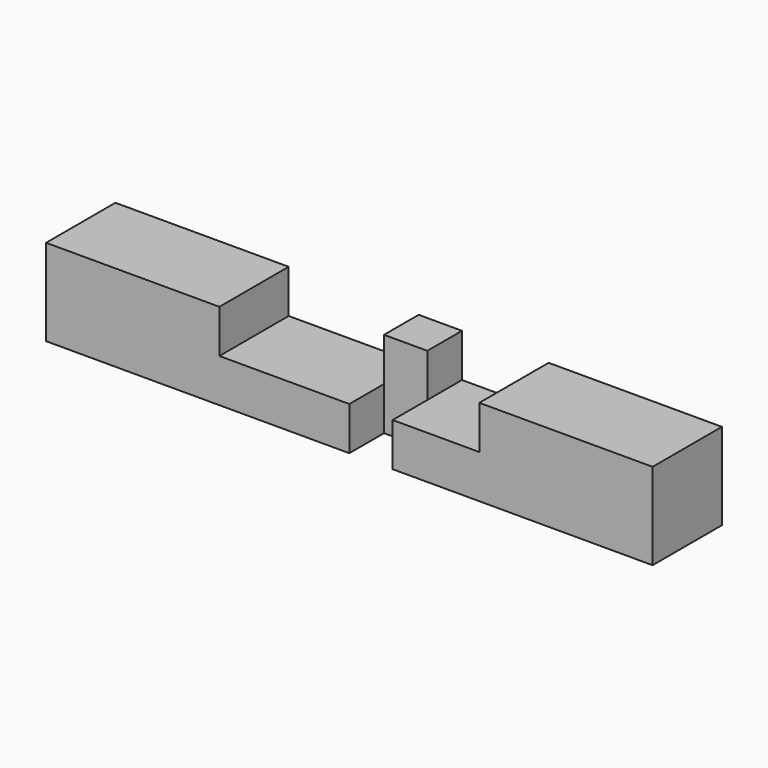
from build123d import *

# Parameters (mm, degrees)
F0_W     = 17.5
F0_H     = 5
F1_DEPTH = 2.5
F2_W     = 7.5
F2_H     = 5
F3_DEPTH = 2.5
F4_W     = 2.5
F4_H     = 2.5
F5_DEPTH = 2.5
F6_W     = 2.5
F6_H     = 2.5
F7_DEPTH = 2.5


with BuildPart() as f1:
    # F0 (on Top) → F1 (new body, symmetric)
    with BuildSketch(Plane.XY):
        with Locations((8.75, 2.5)):
            Rectangle(F0_W, F0_H)
        with Locations((-8.75, 2.5)):
            Rectangle(F0_W, F0_H)
    extrude(amount=F1_DEPTH, both=True)

    # F2 (on Top) → F3 (cut)
    with BuildSketch(Plane.XY):
        with Locations((3.75, 2.5)):
            Rectangle(F2_W, F2_H)
        with Locations((-3.75, 2.5)):
            Rectangle(F2_W, F2_H)
    extrude(amount=F3_DEPTH, mode=Mode.SUBTRACT)

    # F4 (on Right) → F5 (cut)
    with BuildSketch(Plane.YZ):
        with Locations((1.25, -1.25)):
            Rectangle(F4_W, F4_H)
    extrude(amount=F5_DEPTH, mode=Mode.SUBTRACT)

    # F6 (on Top) → F7 (join)
    with BuildSketch(Plane.XY):
        with Locations((1.25, 3.75)):
            Rectangle(F6_W, F6_H)
    extrude(amount=F7_DEPTH)


solid = f1.part
